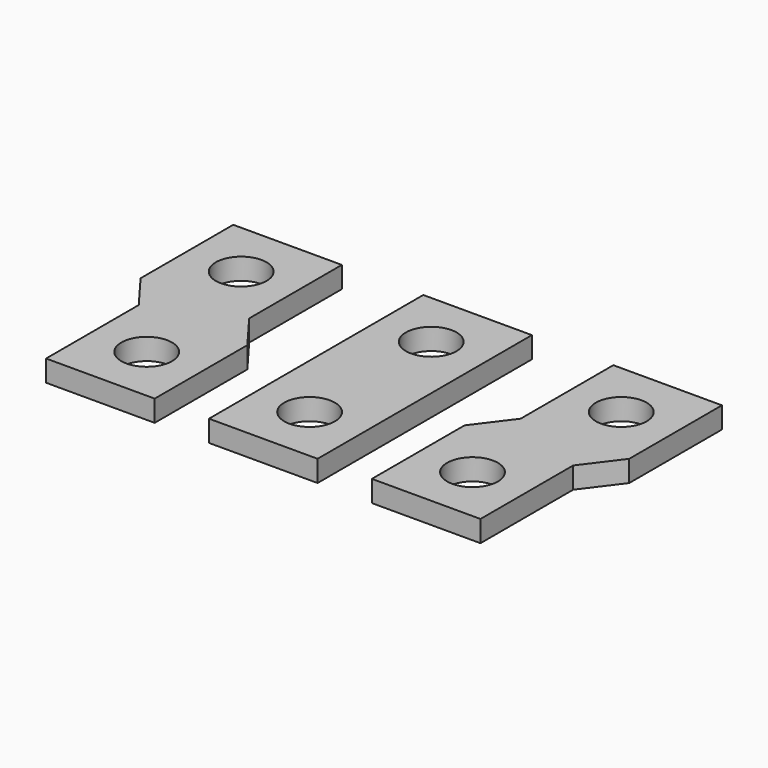
from build123d import *

# Parameters (mm, degrees)
F0_R     = 7
F1_DEPTH = 5.9


with BuildPart() as f1:
    # F0 (on Top) → F1 (new body)
    with BuildSketch(Plane.XY):
        Polygon((-32.906843, 37), (-62.906843, 37), (-62.906843, 5), (-55.406843, -5), (-55.406843, -37), (-25.406843, -37), (-25.406843, -5), (-32.906843, 5), align=None)
        with Locations((-40.406843, -21)):
            Circle(F0_R, mode=Mode.SUBTRACT)
        with Locations((-47.906843, 21)):
            Circle(F0_R, mode=Mode.SUBTRACT)
        Polygon((4.593157, 37), (-10.406843, 37), (-10.406843, -37), (19.593157, -37), (19.593157, 37), align=None)
        with Locations((4.593157, -21)):
            Circle(F0_R, mode=Mode.SUBTRACT)
        with Locations((4.593157, 21)):
            Circle(F0_R, mode=Mode.SUBTRACT)
        Polygon((72.093157, 5), (72.093157, 37), (42.093157, 37), (42.093157, 5), (34.593157, -5), (34.593157, -37), (64.593157, -37), (64.593157, -5), align=None)
        with Locations((49.593157, -21)):
            Circle(F0_R, mode=Mode.SUBTRACT)
        with Locations((57.093157, 21)):
            Circle(F0_R, mode=Mode.SUBTRACT)
    extrude(amount=F1_DEPTH)


solid = f1.part
